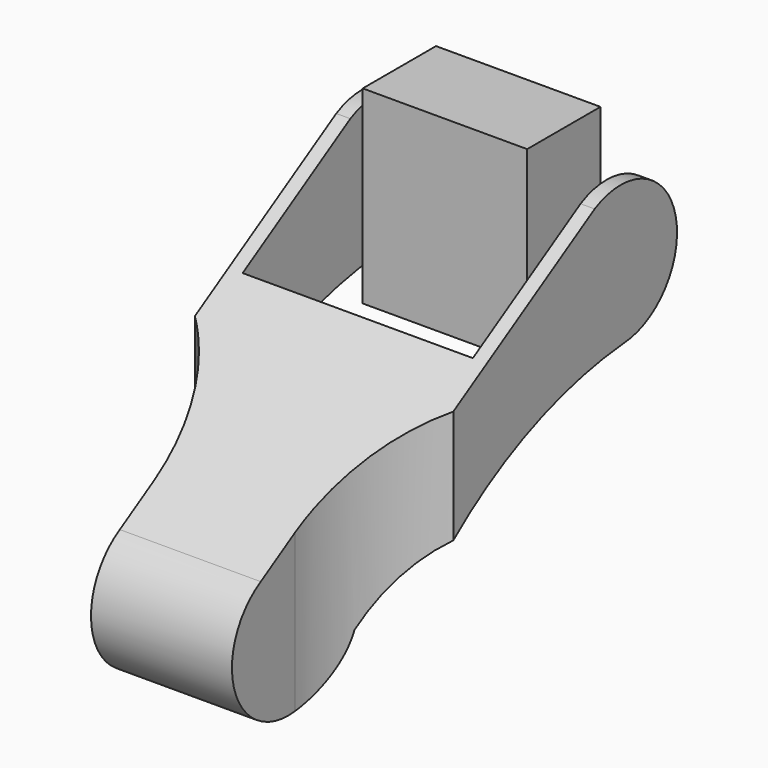
from build123d import *

# Parameters (mm, degrees)
PAD_DEPTH               = 55
SKETCH001_W             = 49
SKETCH001_H             = 60.9
POCKET_DEPTH            = 500
POCKET001_DEPTH         = 500
SKETCH003_W             = 40.3
SKETCH003_H             = 19.5
PAD001_DEPTH            = 35
SKETCH004_R             = 2.9
PAD002_DEPTH            = 43
BODY001_PLACEMENT_ANGLE = 90


with BuildPart() as lowerlegbody:
    # Sketch → Pad (new body)
    with BuildSketch(Plane.YZ):
        with BuildLine():
            ThreePointArc((28.980657, 15.850683), (42.584206, 34.802551), (21.20392, 44.135996))
            Line((-52.001908, 0), (21.20392, 44.135996))
            ThreePointArc((-52.001908, 0), (-53.920439, -24.881725), (-30.209248, -17.099671))
            ThreePointArc((28.980657, 15.850683), (-4.124344, 5.680733), (-30.209248, -17.099671))
        make_face()
    extrude(amount=PAD_DEPTH)

    # Sketch001 → Pocket (cut)
    with BuildSketch(Plane(origin=(27.5, 23, -50), x_dir=(1, 0, 0), z_dir=(0, 0, 1))):
        Rectangle(SKETCH001_W, SKETCH001_H)
    extrude(amount=POCKET_DEPTH, mode=Mode.SUBTRACT)

    # Sketch002 → Pocket001 (cut)
    with BuildSketch(Plane(origin=(27.5, -35, -50), x_dir=(1, 0, 0), z_dir=(0, 0, 1))):
        with BuildLine():
            Line((-49.999941, -8.209968), (-49.999941, -38.209968))
            Line((-49.999941, -38.209968), (-15, -38.209968))
            Line((-15, -38.209968), (-15, -7.838993))
            ThreePointArc((-15, -7.838993), (-25.381364, 16.670931), (-49.999941, 26.791938))
            Line((-49.999941, 26.791938), (-49.999941, -8.209968))
        make_face()
        with BuildLine():
            Line((15, -7.838993), (15, -38.220366))
            Line((15, -38.220366), (49.997922, -38.220366))
            Line((49.997922, -38.220366), (49.997922, -8.220366))
            Line((49.99995, 26.779634), (49.997922, -8.220366))
            ThreePointArc((49.99995, 26.779634), (25.385111, 16.663555), (15, -7.838993))
        make_face()
    extrude(amount=POCKET001_DEPTH, mode=Mode.SUBTRACT)


with BuildPart() as lowerlegbody_1:
    # Body placement: moved
    add(lowerlegbody.part.moved(Location((-27.5, 0, 0))))


with BuildPart() as obj1:
    # Sketch003 → Pad001 (new body)
    with BuildSketch(Plane.XY):
        Rectangle(SKETCH003_W, SKETCH003_H)
    extrude(amount=PAD001_DEPTH)

    # Sketch004 → Pad002 (join)
    with BuildSketch(Plane.XY):
        with Locations((6.425, 0)):
            Circle(SKETCH004_R)
    extrude(amount=PAD002_DEPTH)


with BuildPart() as obj1_1:
    # Body001 placement: moved
    add(obj1.part.moved(Location((-21.5, 30.5, 30.83))).rotate(Axis((-21.5, 30.5, 30.83), (0, 1, 0)), BODY001_PLACEMENT_ANGLE))


solid = Compound([lowerlegbody_1.part, obj1_1.part])
